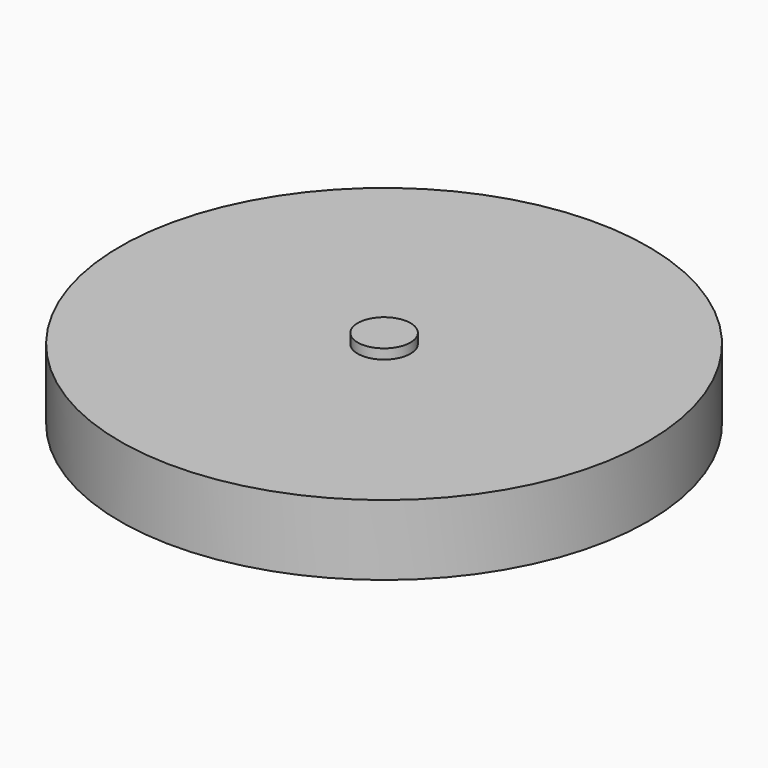
from build123d import *

# Parameters (mm, degrees)
F0_R      = 75
F1_DEPTH  = 20
F3_R      = 7.5
F4_DEPTH  = 25
F4_FACE_R = 7.5
F5_DEPTH  = 22.2


with BuildPart() as f1:
    # F0 (on Top) → F1 (new body)
    with BuildSketch(Plane.XY):
        Circle(F0_R)
    extrude(amount=F1_DEPTH)

    # F3 (on face) → F4 (join)
    with BuildSketch(Plane.XY.offset(20)):
        Circle(F3_R)
    extrude(amount=F4_DEPTH)

    # F4_face (on face) → F5 (cut)
    with BuildSketch(Plane.XY.offset(45)):
        Circle(F4_FACE_R)
    extrude(amount=-F5_DEPTH, mode=Mode.SUBTRACT)


solid = f1.part
